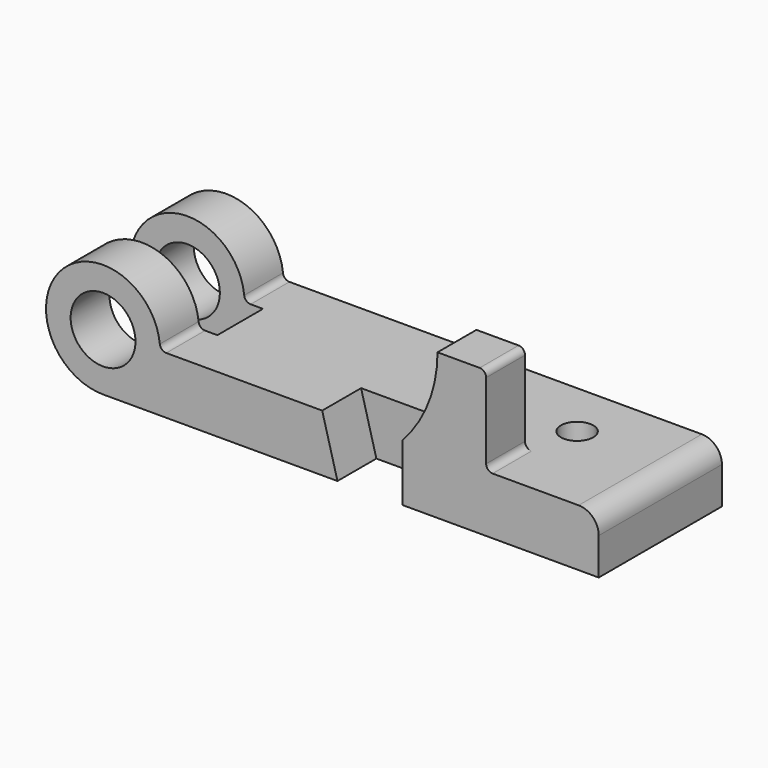
from build123d import *

# Parameters (mm, degrees)
F0_R      = 12.7
F1_DEPTH  = 30.1625
F2_R      = 7.874
F3_R      = 2.54
F4_DEPTH  = 30.1625
F5_DEPTH  = 19.05
F6_DEPTH  = 41.275
F8_R      = 2.54
F9_R      = 6.35
F10_DEPTH = 22.353
F11_W     = 59.1995969771
F11_H     = 22.3266
F12_DEPTH = 34.799
F13_DEPTH = 45.212


with BuildPart() as f1:
    # F0 (on Front) → F1 (new body, symmetric)
    with BuildSketch(Plane.XZ):
        with BuildLine():
            Line((85.852, 0), (22.352, 0))
            ThreePointArc((22.352, 0), (-15.8052507731, 15.8052507731), (0, -22.352))
            Line((0, -22.352), (91.8464, -22.352))
            Line((91.8464, -22.352), (85.852, 0))
        make_face()
        Circle(F0_R, mode=Mode.SUBTRACT)
    extrude(amount=F1_DEPTH, both=True)

    # F3
    f3_edges = [f1.edges().sort_by_distance(p)[0] for p in [
        (22.352, 0, 0),
    ]]
    fillet(f3_edges, radius=F3_R)


with BuildPart() as f1b:
    # F0 (on Front) → F1, piece 2 (new body, symmetric)
    with BuildSketch(Plane.XZ):
        Polygon((150.0886, 0), (117.2464, 0), (117.2464, -22.352), (194.2084, -22.352), (194.2084, 0), align=None)
    extrude(amount=F1_DEPTH, both=True)

    # F2
    f2_edges = [f1b.edges().sort_by_distance(p)[0] for p in [
        (194.2084, 0, 0),
    ]]
    fillet(f2_edges, radius=F2_R)


with BuildPart() as f4:
    # F0 (on Front) → F4 (new body, symmetric)
    with BuildSketch(Plane.XZ):
        Polygon((117.2464, 0), (85.852, 0), (91.8464, -22.352), (117.2464, -22.352), align=None)
    extrude(amount=F4_DEPTH, both=True)

    # F5 (cut): a face of the model
    f5_faces = [f4.faces().sort_by_distance(p)[0] for p in [
        (102.995076446, -30.1625, -10.7828073942),
    ]]
    extrude(f5_faces, amount=-F5_DEPTH, mode=Mode.SUBTRACT)


with BuildPart() as f4b:
    # F0 (on Front) → F4, piece 2 (new body, symmetric)
    with BuildSketch(Plane.XZ):
        with BuildLine():
            ThreePointArc((131.0386, 34.798), (127.4644153616, 16.0823576341), (117.2464, 0))
            Line((117.2464, 0), (150.0886, 0))
            Line((150.0886, 0), (150.0886, 34.798))
            Line((150.0886, 34.798), (131.0386, 34.798))
        make_face()
    extrude(amount=F4_DEPTH, both=True)

    # F6 (cut): a face of the model
    f6_faces = [f4b.faces().sort_by_distance(p)[0] for p in [
        (138.0621984193, 30.1625, 15.7456064231),
    ]]
    extrude(f6_faces, amount=-F6_DEPTH, mode=Mode.SUBTRACT)


with BuildPart() as f1b_1:
    add(f1b.part)

    # F7: union F4, F1, F4b
    add(f4.part)
    add(f1.part)
    add(f4b.part)

    # F8
    f8_edges = [f1b_1.edges().sort_by_distance(p)[0] for p in [
        (150.0886, -20.6375, 34.798),
        (150.0886, -20.6375, 0),
    ]]
    fillet(f8_edges, radius=F8_R)

    # F9 (on face) → F10 (cut, through all)
    with BuildSketch(Plane.XY):
        with Locations((155.3464, 7.8105)):
            Circle(F9_R)
    extrude(amount=-F10_DEPTH, mode=Mode.SUBTRACT)

    # F11 (on Top) → F12 (cut, through all)
    with BuildSketch(Plane.XY):
        with Locations((-0.0117294312, 0)):
            Rectangle(F11_W, F11_H)
    extrude(amount=F12_DEPTH, mode=Mode.SUBTRACT)

    # F11 (on Top) → F13 (cut)
    with BuildSketch(Plane.XY):
        with Locations((-0.0117294312, 0)):
            Rectangle(F11_W, F11_H)
    extrude(amount=-F13_DEPTH, mode=Mode.SUBTRACT)


solid = f1b_1.part
